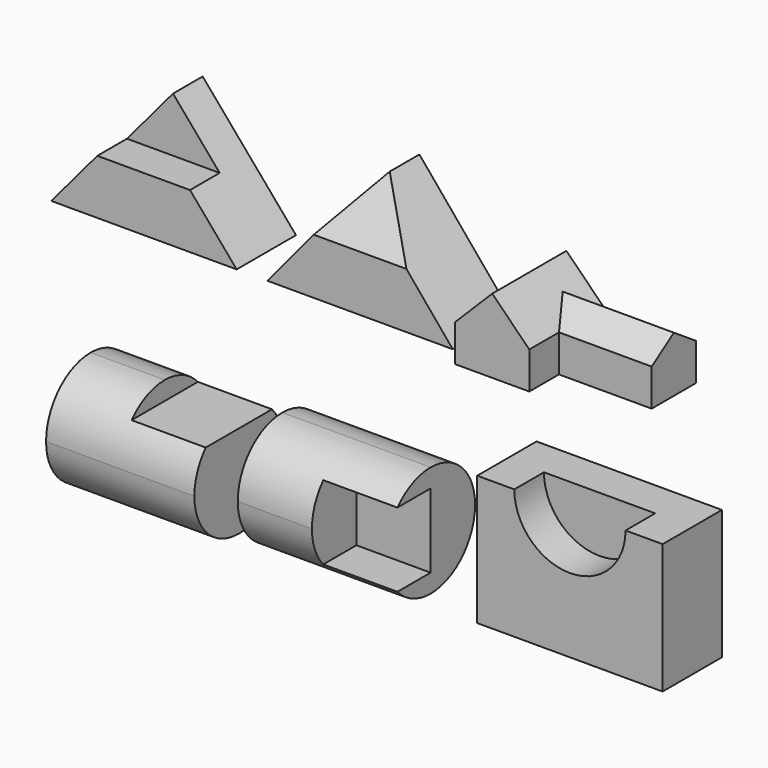
from build123d import *

# Parameters (mm, degrees)
F1_DEPTH  = 101.6
F3_DEPTH  = 50.8
F5_DEPTH  = 101.6
F9_DEPTH  = 78.74
F11_DEPTH = 127
F15_DEPTH = 177.8
F17_DEPTH = 152.4
F19_DEPTH = 239.776
F20_W     = 101.6
F20_H     = 101.6
F21_DEPTH = 152.4
F22_W     = 101.6
F22_H     = 101.6
F23_DEPTH = 76.2
F25_DEPTH = 344.17
F26_W     = 254
F26_H     = 177.8
F27_DEPTH = 101.6
F29_DEPTH = 50.8


with BuildPart() as f1:
    # F0 (on Front) → F1 (new body)
    with BuildSketch(Plane.XZ):
        Polygon((-254, 0), (-127, 0), (-127, 76.2), (-189.8684257342, 76.2), align=None)
        Polygon((-127, 0), (0, 0), (-64.9948852758, 76.2), (-127, 76.2), align=None)
        Polygon((-127, 76.2), (-64.9948852758, 76.2), (-127.8490939708, 149.8902708919), (-189.8684257342, 76.2), align=None)
    extrude(amount=F1_DEPTH)

    # F2 (on face) → F3 (cut)
    with BuildSketch(Plane.XZ.offset(101.6)):
        Polygon((-190.9245469854, 74.945135446), (-127, 74.945135446), (-63.9245469854, 74.945135446), (-127.8490939708, 149.8902708919), align=None)
    extrude(amount=-F3_DEPTH, mode=Mode.SUBTRACT)


with BuildPart() as f5:
    # F4 (on Front) → F5 (new body)
    with BuildSketch(Plane.XZ):
        Polygon((105.6093358387, 76.2), (42.1093358387, 0), (296.1093358387, 0), (232.6093358387, 76.2), (169.1093358387, 76.2), align=None)
        Polygon((169.1093358387, 152.4), (105.6093358387, 76.2), (169.1093358387, 76.2), (232.6093358387, 76.2), align=None)
    extrude(amount=F5_DEPTH)

    # F8 (on 3pt) → F9 (cut, symmetric)
    with BuildSketch(Plane(origin=(169.1093358387, 0, 0), x_dir=(0, -1, 0), z_dir=(-1, 0, 0))):
        Polygon((50.8, 152.4), (101.6, 76.2), (101.6, 152.4), align=None)
    extrude(amount=F9_DEPTH, both=True, mode=Mode.SUBTRACT)


with BuildPart() as f11:
    # F10 (on Front) → F11 (new body)
    with BuildSketch(Plane.XZ):
        Polygon((319.7051088319, 50.8), (319.7051088319, 0), (421.3051088319, 0), (421.3051088319, 50.8), (370.5051088319, 101.6), align=None)
    extrude(amount=F11_DEPTH)

    # F14 (on 3pt) → F15 (join)
    with BuildSketch(Plane(origin=(370.5051088319, 0, 0), x_dir=(0, -1, 0), z_dir=(-1, 0, 0))):
        Polygon((0, 50.8), (0, 0), (76.2, 0), (76.2, 50.8), (38.1, 76.2), align=None)
    extrude(amount=-F15_DEPTH)


with BuildPart() as f17:
    # F16 (on Front) → F17 (new body)
    with BuildSketch(Plane.XZ):
        Polygon((-118.8965989277, -182.334871027), (-220.4965989277, -182.334871027), (-220.4965989277, -334.734871027), (-17.2965989277, -334.734871027), (-17.2965989277, -207.734871027), (-118.8965989277, -207.734871027), align=None)
    extrude(amount=F17_DEPTH)

    # F18 (on face) → F19 (cut)
    with BuildSketch(Plane(origin=(-220.4965989277, 0, 0), x_dir=(0, -1, 0), z_dir=(-1, 0, 0))):
        with BuildLine():
            ThreePointArc((76.2, -182.334871027), (130.0815367264, -204.6533343006), (152.4, -258.534871027))
            Line((152.4, -258.534871027), (152.4, -182.334871027))
            Line((152.4, -182.334871027), (76.2, -182.334871027))
        make_face()
        with BuildLine():
            Line((152.4, -334.734871027), (152.4, -258.534871027))
            ThreePointArc((152.4, -258.534871027), (130.0815367264, -312.4164077534), (76.2, -334.734871027))
            Line((76.2, -334.734871027), (152.4, -334.734871027))
        make_face()
        with BuildLine():
            Line((0, -334.734871027), (76.2, -334.734871027))
            ThreePointArc((76.2, -334.734871027), (22.3184632736, -312.4164077534), (0, -258.534871027))
            Line((0, -258.534871027), (0, -334.734871027))
        make_face()
        with BuildLine():
            ThreePointArc((0, -258.534871027), (22.3184632736, -204.6533343006), (76.2, -182.334871027))
            Line((76.2, -182.334871027), (0, -182.334871027))
            Line((0, -182.334871027), (0, -258.534871027))
        make_face()
    extrude(amount=-F19_DEPTH, mode=Mode.SUBTRACT)


with BuildPart() as f21:
    # F20 (on Front) → F21 (new body)
    with BuildSketch(Plane.XZ):
        Polygon((42.1777254931, -169.3016177211), (42.1777254931, -321.7016177211), (245.3777254931, -321.7016177211), (245.3777254931, -296.3016177211), (143.7777254931, -296.3016177211), (143.7777254931, -194.7016177211), (245.3777254931, -194.7016177211), (245.3777254931, -169.3016177211), align=None)
        with Locations((194.5777254931, -245.5016177211)):
            Rectangle(F20_W, F20_H)
    extrude(amount=F21_DEPTH)

    # F22 (on face) → F23 (cut)
    with BuildSketch(Plane.XZ.offset(152.4)):
        with Locations((194.5777254931, -245.5016177211)):
            Rectangle(F22_W, F22_H)
    extrude(amount=-F23_DEPTH, mode=Mode.SUBTRACT)

    # F24 (on face) → F25 (cut)
    with BuildSketch(Plane(origin=(42.1777254931, 0, 0), x_dir=(0, -1, 0), z_dir=(-1, 0, 0))):
        with BuildLine():
            ThreePointArc((76.2, -169.3016177211), (130.0815367264, -191.6200809947), (152.4, -245.5016177211))
            Line((152.4, -245.5016177211), (152.4, -169.3016177211))
            Line((152.4, -169.3016177211), (76.2, -169.3016177211))
        make_face()
        with BuildLine():
            ThreePointArc((0, -245.5016177211), (22.3184632736, -191.6200809947), (76.2, -169.3016177211))
            Line((76.2, -169.3016177211), (0, -169.3016177211))
            Line((0, -169.3016177211), (0, -245.5016177211))
        make_face()
        with BuildLine():
            Line((152.4, -321.7016177211), (152.4, -245.5016177211))
            ThreePointArc((152.4, -245.5016177211), (130.0815367264, -299.3831544475), (76.2, -321.7016177211))
            Line((76.2, -321.7016177211), (152.4, -321.7016177211))
        make_face()
        with BuildLine():
            Line((0, -321.7016177211), (76.2, -321.7016177211))
            ThreePointArc((76.2, -321.7016177211), (22.3184632736, -299.3831544475), (0, -245.5016177211))
            Line((0, -245.5016177211), (0, -321.7016177211))
        make_face()
    extrude(amount=-F25_DEPTH, mode=Mode.SUBTRACT)


with BuildPart() as f27:
    # F26 (on Front) → F27 (new body)
    with BuildSketch(Plane.XZ):
        with Locations((456.6170573235, -230.5160389135)):
            Rectangle(F26_W, F26_H)
    extrude(amount=F27_DEPTH)

    # F28 (on face) → F29 (cut)
    with BuildSketch(Plane.XZ.offset(101.6)):
        with BuildLine():
            ThreePointArc((380.4170573235, -141.6160389135), (456.6170573235, -217.8160389135), (532.8170573235, -141.6160389135))
            Line((532.8170573235, -141.6160389135), (380.4170573235, -141.6160389135))
        make_face()
    extrude(amount=-F29_DEPTH, mode=Mode.SUBTRACT)


solid = Compound([f1.part, f5.part, f11.part, f17.part, f21.part, f27.part])
